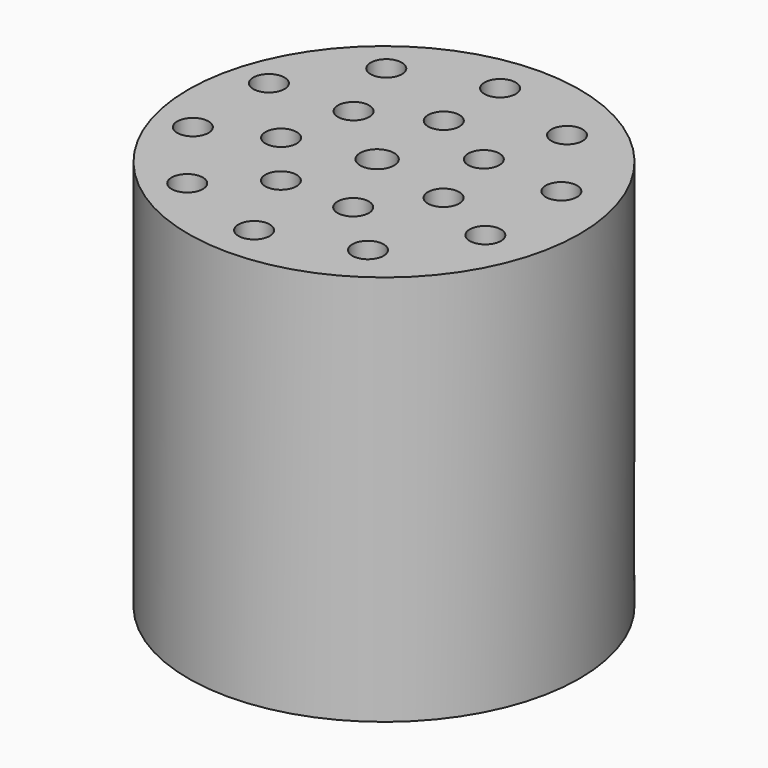
from build123d import *

# Parameters (mm, degrees)
F0_R     = 75
F2_DEPTH = 150
F1_R     = 6
F1_R_2   = 6.5
F3_DEPTH = 100
F4_W     = 120
F4_H     = 40
F5_DEPTH = 90


with BuildPart() as f2:
    # F0 (on Top) → F2 (new body)
    with BuildSketch(Plane.XY):
        with Locations((2.638103, 0)):
            Circle(F0_R)
    extrude(amount=-F2_DEPTH)

    # F1 (on face) → F3 (cut)
    with BuildSketch(Plane.XY):
        with Locations((0, 58.940991)):
            Circle(F1_R)
        with Locations((-34.644645, 47.684263)):
            Circle(F1_R)
        with Locations((-56.056213, 18.213768)):
            Circle(F1_R)
        with Locations((-56.056213, -18.213768)):
            Circle(F1_R)
        with Locations((-34.644645, -47.684263)):
            Circle(F1_R)
        with Locations((0, -58.940991)):
            Circle(F1_R)
        with Locations((34.644645, -47.684263)):
            Circle(F1_R)
        with Locations((56.056213, -18.213768)):
            Circle(F1_R)
        with Locations((56.056213, 18.213768)):
            Circle(F1_R)
        with Locations((34.644645, 47.684263)):
            Circle(F1_R)
        with Locations((0, 31.940991)):
            Circle(F1_R)
        with Locations((-24.972472, 19.914882)):
            Circle(F1_R)
        with Locations((-31.140164, -7.107539)):
            Circle(F1_R)
        with Locations((-13.858677, -28.777838)):
            Circle(F1_R)
        with Locations((13.858677, -28.777838)):
            Circle(F1_R)
        with Locations((31.140164, -7.107539)):
            Circle(F1_R)
        with Locations((24.972472, 19.914882)):
            Circle(F1_R)
        Circle(F1_R_2)
    extrude(amount=-F3_DEPTH, mode=Mode.SUBTRACT)

    # F4 (on Front) → F5 (cut)
    with BuildSketch(Plane.XZ):
        with Locations((4.467444, -120.885696)):
            Rectangle(F4_W, F4_H)
    extrude(amount=-F5_DEPTH, mode=Mode.SUBTRACT)


solid = f2.part
